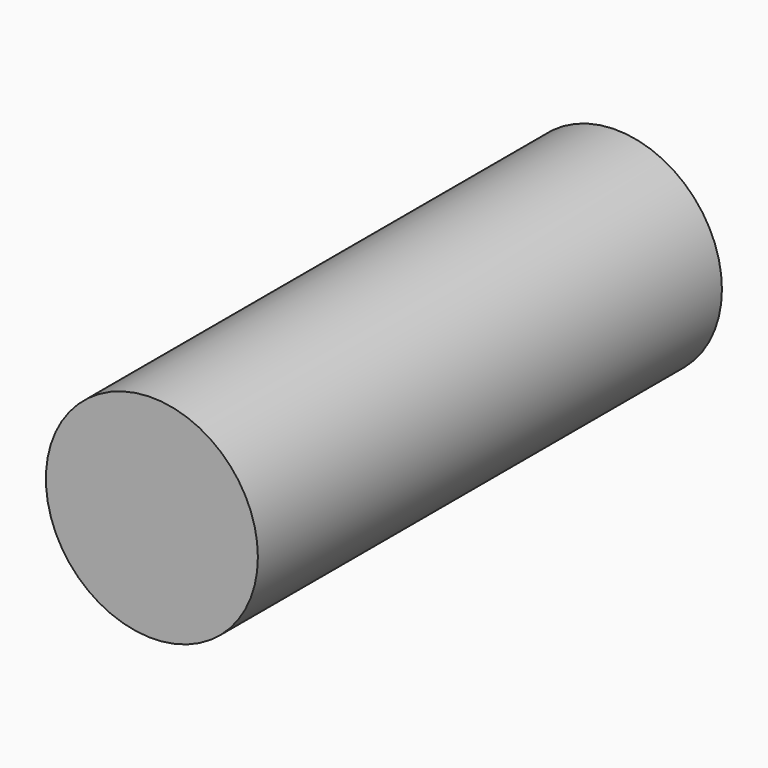
from build123d import *

# Parameters (mm, degrees)
F0_R          = 9.144
F1_DEPTH      = 25.019
F1_DEPTH_BACK = 25.019
F2_R          = 2.667
F3_DEPTH      = 1.27


with BuildPart() as f1:
    # F0 (on Front) → F1 (new body, two sides)
    with BuildSketch(Plane.XZ) as f1_sk:
        Circle(F0_R)
    extrude(amount=F1_DEPTH)
    extrude(f1_sk.sketch, amount=-F1_DEPTH_BACK)

    # F2 (on face) → F3 (join)
    with BuildSketch(Plane(origin=(0, 25.019, 0), x_dir=(-1, 0, 0), z_dir=(0, 1, 0))):
        Circle(F2_R)
    extrude(amount=F3_DEPTH)


solid = f1.part
